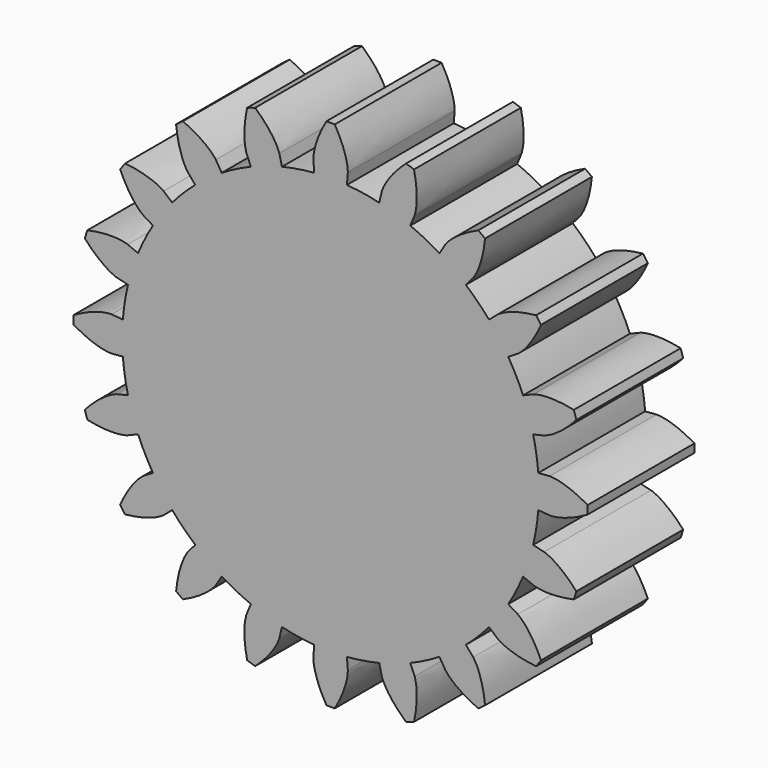
from build123d import *

# Parameters (mm, degrees)
F1_DEPTH = 20
F3_COUNT = 20
F4_R     = 31.2
F5_DEPTH = 20


with BuildPart() as f1:
    # F0 (on Front) → F1 (new body)
    with BuildSketch(Plane.XZ):
        with BuildLine():
            add(Edge.make_bspline(
                [(2.5804601651, 32.7878551715), (2.5944305415, 32.8575909404), (2.574476646, 33.0542772391), (2.5109571994, 33.8176700465), (2.2302103851, 34.9847345247), (1.6484087097, 36.608716137), (1.0202300036, 37.8062687814), (0.6300999607, 38.4948434734)],
                knots=[0, 0, 0, 0, 0.0942331274, 0.2574201996, 0.4680907573, 0.7173585294, 1, 1, 1, 1], degree=3))
            ThreePointArc((0.6300999607, 38.4948434734), (0, 38.5), (-0.6300999607, 38.4948434734))
            add(Edge.make_bspline(
                [(-2.5804601651, 32.7878551715), (-2.5944305415, 32.8575909404), (-2.574476646, 33.0542772391), (-2.5109571994, 33.8176700465), (-2.2302103851, 34.9847345247), (-1.6484087097, 36.608716137), (-1.0202300036, 37.8062687814), (-0.6300999607, 38.4948434734)],
                knots=[0, 0, 0, 0, 0.0942331274, 0.2574201996, 0.4680907573, 0.7173585294, 1, 1, 1, 1], degree=3))
            Line((-2.5804601651, 32.7878551715), (-2.4479237867, 31.1038208125))
            ThreePointArc((-2.4479237867, 31.1038208125), (0, 31.2), (2.4479237867, 31.1038208125))
            Line((2.4479237867, 31.1038208125), (2.5804601651, 32.7878551715))
        make_face()
    extrude(amount=F1_DEPTH)


with BuildPart() as f3_1:
    # F3: instance of F1
    add(f1.part.rotate(Axis((0, -4.3133078143, 0), (0, -1, 0)), 1 * 360 / F3_COUNT))


with BuildPart() as f3_2:
    # F3: instance of F1
    add(f1.part.rotate(Axis((0, -4.3133078143, 0), (0, -1, 0)), 2 * 360 / F3_COUNT))


with BuildPart() as f3_3:
    # F3: instance of F1
    add(f1.part.rotate(Axis((0, -4.3133078143, 0), (0, -1, 0)), 3 * 360 / F3_COUNT))


with BuildPart() as f3_4:
    # F3: instance of F1
    add(f1.part.rotate(Axis((0, -4.3133078143, 0), (0, -1, 0)), 4 * 360 / F3_COUNT))


with BuildPart() as f3_5:
    # F3: instance of F1
    add(f1.part.rotate(Axis((0, -4.3133078143, 0), (0, -1, 0)), 5 * 360 / F3_COUNT))


with BuildPart() as f3_6:
    # F3: instance of F1
    add(f1.part.rotate(Axis((0, -4.3133078143, 0), (0, -1, 0)), 6 * 360 / F3_COUNT))


with BuildPart() as f3_7:
    # F3: instance of F1
    add(f1.part.rotate(Axis((0, -4.3133078143, 0), (0, -1, 0)), 7 * 360 / F3_COUNT))


with BuildPart() as f3_8:
    # F3: instance of F1
    add(f1.part.rotate(Axis((0, -4.3133078143, 0), (0, -1, 0)), 8 * 360 / F3_COUNT))


with BuildPart() as f3_9:
    # F3: instance of F1
    add(f1.part.rotate(Axis((0, -4.3133078143, 0), (0, -1, 0)), 9 * 360 / F3_COUNT))


with BuildPart() as f3_10:
    # F3: instance of F1
    add(f1.part.rotate(Axis((0, -4.3133078143, 0), (0, -1, 0)), 10 * 360 / F3_COUNT))


with BuildPart() as f3_11:
    # F3: instance of F1
    add(f1.part.rotate(Axis((0, -4.3133078143, 0), (0, -1, 0)), 11 * 360 / F3_COUNT))


with BuildPart() as f3_12:
    # F3: instance of F1
    add(f1.part.rotate(Axis((0, -4.3133078143, 0), (0, -1, 0)), 12 * 360 / F3_COUNT))


with BuildPart() as f3_13:
    # F3: instance of F1
    add(f1.part.rotate(Axis((0, -4.3133078143, 0), (0, -1, 0)), 13 * 360 / F3_COUNT))


with BuildPart() as f3_14:
    # F3: instance of F1
    add(f1.part.rotate(Axis((0, -4.3133078143, 0), (0, -1, 0)), 14 * 360 / F3_COUNT))


with BuildPart() as f3_15:
    # F3: instance of F1
    add(f1.part.rotate(Axis((0, -4.3133078143, 0), (0, -1, 0)), 15 * 360 / F3_COUNT))


with BuildPart() as f3_16:
    # F3: instance of F1
    add(f1.part.rotate(Axis((0, -4.3133078143, 0), (0, -1, 0)), 16 * 360 / F3_COUNT))


with BuildPart() as f3_17:
    # F3: instance of F1
    add(f1.part.rotate(Axis((0, -4.3133078143, 0), (0, -1, 0)), 17 * 360 / F3_COUNT))


with BuildPart() as f3_18:
    # F3: instance of F1
    add(f1.part.rotate(Axis((0, -4.3133078143, 0), (0, -1, 0)), 18 * 360 / F3_COUNT))


with BuildPart() as f3_19:
    # F3: instance of F1
    add(f1.part.rotate(Axis((0, -4.3133078143, 0), (0, -1, 0)), 19 * 360 / F3_COUNT))


with BuildPart() as f1_1:
    add(f1.part)

    add(f3_1.part)  # F5 merges F3_1

    add(f3_2.part)  # F5 merges F3_2

    add(f3_3.part)  # F5 merges F3_3

    add(f3_4.part)  # F5 merges F3_4

    add(f3_5.part)  # F5 merges F3_5

    add(f3_6.part)  # F5 merges F3_6

    add(f3_7.part)  # F5 merges F3_7

    add(f3_8.part)  # F5 merges F3_8

    add(f3_9.part)  # F5 merges F3_9

    add(f3_10.part)  # F5 merges F3_10

    add(f3_11.part)  # F5 merges F3_11

    add(f3_12.part)  # F5 merges F3_12

    add(f3_13.part)  # F5 merges F3_13

    add(f3_14.part)  # F5 merges F3_14

    add(f3_15.part)  # F5 merges F3_15

    add(f3_16.part)  # F5 merges F3_16

    add(f3_17.part)  # F5 merges F3_17

    add(f3_18.part)  # F5 merges F3_18

    add(f3_19.part)  # F5 merges F3_19
    # F4 (on Front) → F5 (join)
    with BuildSketch(Plane.XZ):
        Circle(F4_R)
    extrude(amount=F5_DEPTH)


solid = f1_1.part
